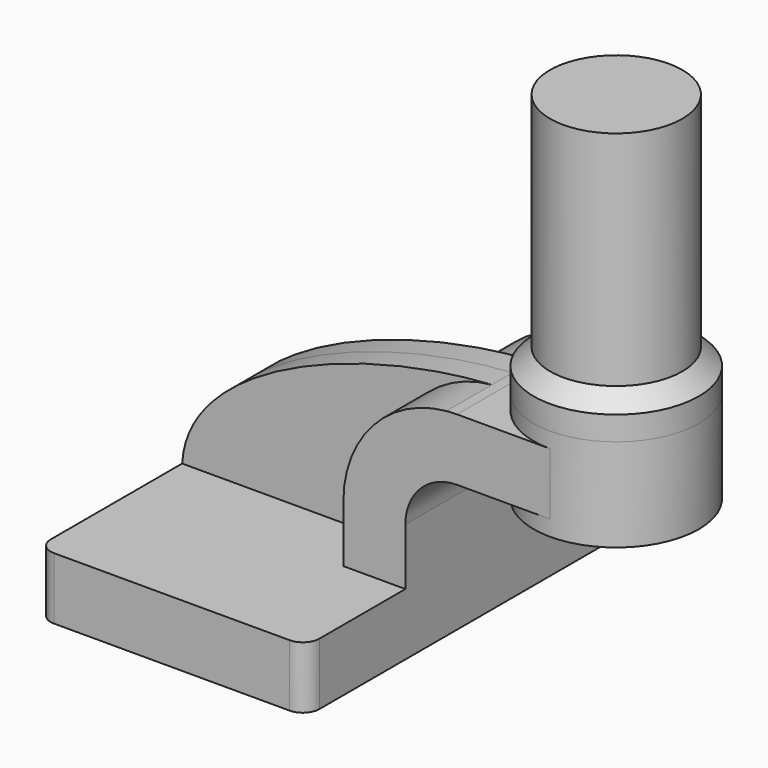
from build123d import *

# Parameters (mm, degrees)
F1_DEPTH = 63.5
F0_W     = 25.4
F0_H     = 19.05
F2_DEPTH = 25.4
F3_DEPTH = 7.9375
F5_R     = 5.08
F6_DEPTH = 12.446
F7_SIZE  = 5.08
F8_DEPTH = 25.4
F9_DEPTH = 42.926


with BuildPart() as f1:
    # F0 (on Front) → F1 (new body, symmetric)
    with BuildSketch(Plane.XZ):
        Polygon((22.225, 9.525), (-41.275, 9.525), (-41.275, -9.525), (41.275, -9.525), (41.275, 9.525), align=None)
    extrude(amount=F1_DEPTH, both=True)

    # F0 (on Front) → F2 (join, symmetric)
    with BuildSketch(Plane.XZ):
        with BuildLine():
            Line((22.225, 27.0002), (22.225, 9.525))
            Line((22.225, 9.525), (41.275, 9.525))
            Line((41.275, 9.525), (41.275, 27.0002))
            ThreePointArc((41.275, 27.0002), (45.9246798487, 38.2255201513), (57.15, 42.8752))
            Line((57.15, 42.8752), (60.325, 42.8752))
            Line((60.325, 42.8752), (60.325, 61.9252))
            Line((60.325, 61.9252), (57.15, 61.9252))
            add(Edge.make_bspline(
                [(53.8854342407, 61.7722898912), (54.9842067368, 61.8365871986), (56.0728453275, 61.8876096574), (57.15, 61.9252)],
                knots=[108.5245810491, 108.5245810491, 108.5245810491, 108.5245810491, 111.5045361635, 111.5045361635, 111.5045361635, 111.5045361635], degree=3))
            ThreePointArc((53.8854342407, 61.7722898912), (31.3258777096, 50.5133948686), (22.225, 27.0002))
        make_face()
        with Locations((73.025, 52.4002)):
            Rectangle(F0_W, F0_H)
    extrude(amount=F2_DEPTH, both=True)

    # F0 (on Front) → F3 (join, symmetric)
    with BuildSketch(Plane.XZ):
        with BuildLine():
            add(Edge.make_bspline(
                [(-41.275, 9.525), (-39.5856284224, 39.4828766469), (13.870125209, 59.4306981306), (53.8854342407, 61.7722898912)],
                knots=[0, 0, 0, 0, 108.5245810491, 108.5245810491, 108.5245810491, 108.5245810491], degree=3))
            Line((-41.275, 9.525), (22.225, 9.525))
            Line((22.225, 9.525), (22.225, 27.0002))
            ThreePointArc((22.225, 27.0002), (31.3258777096, 50.5133948686), (53.8854342407, 61.7722898912))
        make_face()
    extrude(amount=F3_DEPTH, both=True)

    # F0 (on Front) → F4 (revolve)
    with BuildSketch(Plane.XZ):
        Polygon((85.725, 66.675), (85.725, 61.9252), (85.725, 42.8752), (85.725, 38.1), (111.125, 38.1), (111.125, 66.675), align=None)
    revolve(axis=Axis((85.725, 0, 52.3875), (0, 0, 1)))

    # F5
    f5_edges = [f1.edges().sort_by_distance(p)[0] for p in [
        (41.275, -63.5, 0),
        (-41.275, -63.5, 0),
        (41.275, 63.5, 0),
        (-41.275, 63.5, 0),
    ]]
    fillet(f5_edges, radius=F5_R)

    # F6 (add): a face of the model
    f6_faces = [f1.faces().sort_by_distance(p)[0] for p in [
        (85.725, 0, 66.675),
    ]]
    extrude(f6_faces, amount=F6_DEPTH)

    # F7
    f7_edges = [f1.edges().sort_by_distance(p)[0] for p in [
        (60.325, 0, 79.121),
    ]]
    chamfer(f7_edges, length=F7_SIZE)

    # F8 (add): a face of the model
    f8_faces = [f1.faces().sort_by_distance(p)[0] for p in [
        (85.725, 0, 79.121),
    ]]
    extrude(f8_faces, amount=F8_DEPTH)

    # F9 (add): a face of the model
    f9_faces = [f1.faces().sort_by_distance(p)[0] for p in [
        (85.725, 0, 104.521),
    ]]
    extrude(f9_faces, amount=F9_DEPTH)


solid = f1.part
